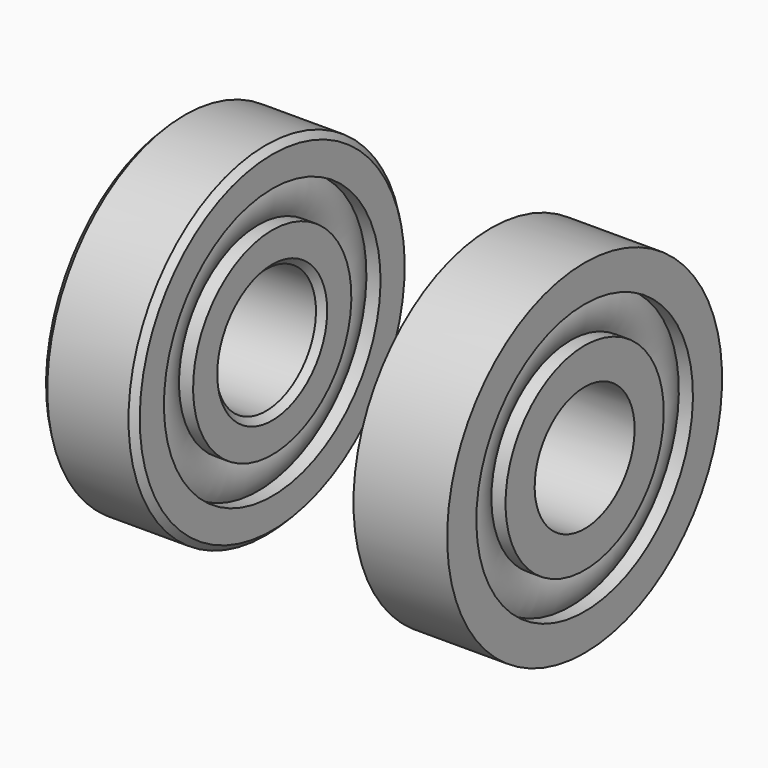
from build123d import *

# Parameters (mm, degrees)
F4_SIZE = 0.4


with BuildPart() as f2:
    # F1 (on Front) → F2 (revolve)
    with BuildSketch(Plane.XZ):
        with BuildLine():
            Line((2.0973528289, 8.6666666667), (3, 8.6666666667))
            Line((3, 8.6666666667), (3, 11))
            Line((3, 11), (-3, 11))
            Line((-3, 11), (-3, 8.6666666667))
            Line((-3, 8.6666666667), (-2.0973528289, 8.6666666667))
            ThreePointArc((-2.0973528289, 8.6666666667), (-2.4, 7.5), (-2.0973528289, 6.3333333333))
            Line((-2.0973528289, 6.3333333333), (-3, 6.3333333333))
            Line((-3, 6.3333333333), (-3, 4))
            Line((-3, 4), (3, 4))
            Line((3, 4), (3, 6.3333333333))
            Line((3, 6.3333333333), (2.0973528289, 6.3333333333))
            ThreePointArc((2.0973528289, 6.3333333333), (2.4, 7.5), (2.0973528289, 8.6666666667))
        make_face()
    revolve(axis=Axis((18.8289619982, 0, 0), (1, 0, 0)))


with BuildPart() as f3_1:
    # F3: copy of F2
    add(f2.part.moved(Location((20, 0, 0))))


with BuildPart() as f2_1:
    add(f2.part)

    # F4
    f4_edges = [f2_1.edges().sort_by_distance(p)[0] for p in [
        (-3, 0, -11),
        (3, 0, -11),
        (3, 0, -4),
        (-3, 0, -4),
    ]]
    chamfer(f4_edges, length=F4_SIZE)


solid = Compound([f3_1.part, f2_1.part])
